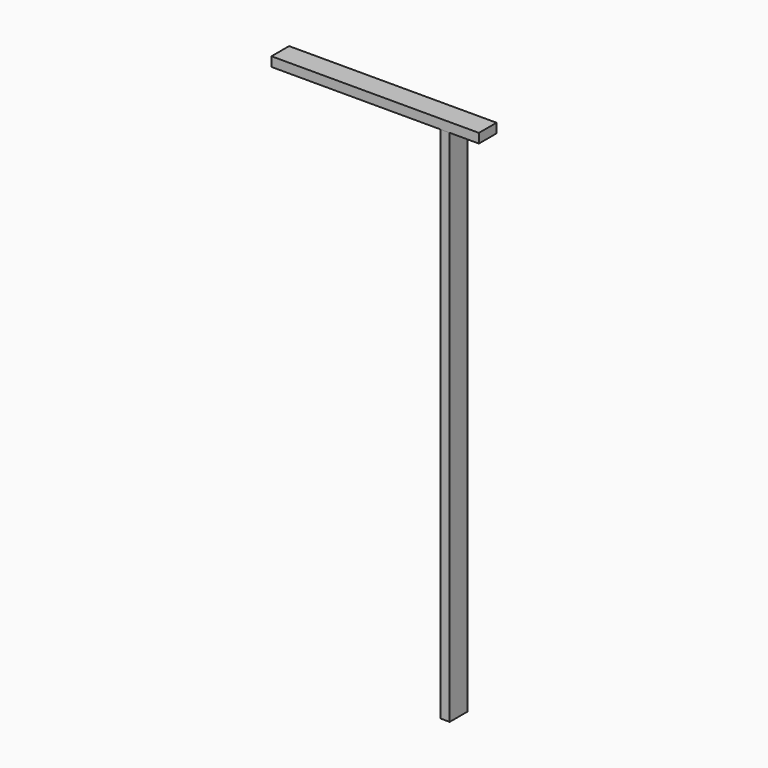
from build123d import *

# Parameters (mm, degrees)
F0_W     = 88.9
F0_H     = 38.1
F1_DEPTH = 838.2
F2_W     = 38.1
F2_H     = 88.9
F3_DEPTH = 2095.5


with BuildPart() as f1:
    # F0 (on Right) → F1 (new body)
    with BuildSketch(Plane.YZ):
        Rectangle(F0_W, F0_H)
    extrude(amount=F1_DEPTH)


with BuildPart() as f3:
    # F2 (on face) → F3 (new body)
    with BuildSketch(Plane(origin=(0, 0, -19.05), x_dir=(1, 0, 0), z_dir=(0, 0, -1))):
        with Locations((701.031444, 0)):
            Rectangle(F2_W, F2_H)
    extrude(amount=F3_DEPTH)


solid = Compound([f1.part, f3.part])
